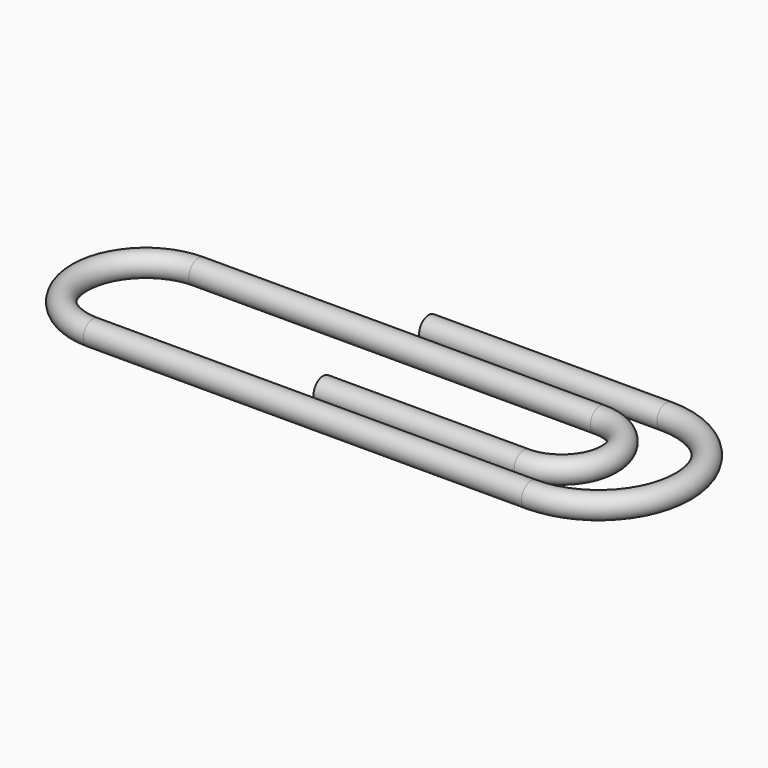
from build123d import *

# Parameters (mm, degrees)
F0_R = 2.25


with BuildPart() as f2:
    # F2: sweep along a path in F1
    with BuildLine(Plane.XY) as f2_path:
        Line((0, 0), (38, 0))
        ThreePointArc((38, 0), (47, 9), (38, 18))
        Line((38, 18), (-38, 18))
        ThreePointArc((-38, 18), (-50.5, 5.5), (-38, -7))
        Line((-38, -7), (45, -7))
        ThreePointArc((45, -7), (61, 9), (45, 25))
        Line((45, 25), (0, 25))
    # F0 (on Right) → F2 (sweep)
    with BuildSketch(Plane.YZ):
        Circle(F0_R)
    sweep(path=f2_path.line)


solid = f2.part
